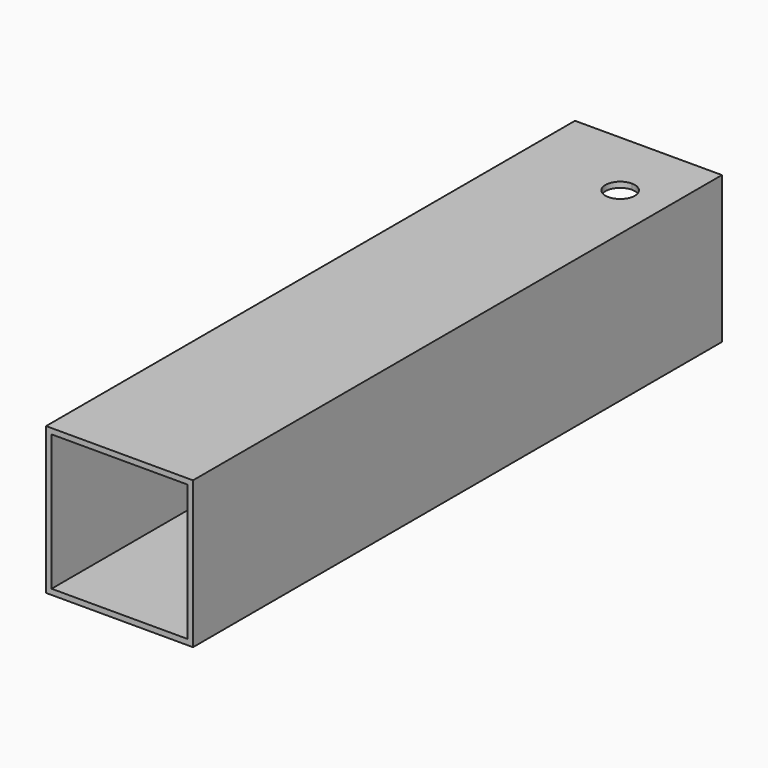
from build123d import *

# Parameters (mm, degrees)
F0_W     = 20
F0_H     = 20
F0_W_2   = 18.5
F0_H_2   = 18.5
F1_DEPTH = 90
F3_DEPTH = 25


with BuildPart() as f1:
    # F0 (on Front) → F1 (new body)
    with BuildSketch(Plane.XZ):
        with Locations((-44.484539, 36.999997)):
            Rectangle(F0_W, F0_H)
        with Locations((-44.484539, 36.999997)):
            Rectangle(F0_W_2, F0_H_2, mode=Mode.SUBTRACT)
    extrude(amount=F1_DEPTH)

    # F2 (on face) → F3 (cut)
    with BuildSketch(Plane.XY.offset(46.999997)):
        with BuildLine():
            ThreePointArc((-40.734539, -7.5), (-42.148752, -10.914214), (-38.734539, -9.5))
            ThreePointArc((-38.734539, -9.5), (-39.320325, -8.085786), (-40.734539, -7.5))
        make_face()
    extrude(amount=-F3_DEPTH, mode=Mode.SUBTRACT)


solid = f1.part
